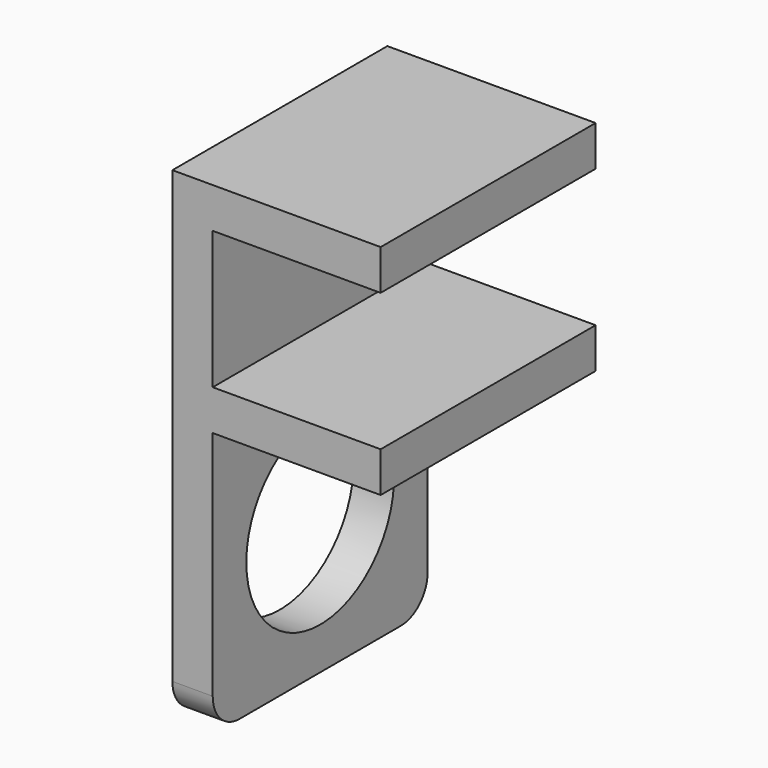
from build123d import *

# Parameters (mm, degrees)
F0_W     = 25
F0_H     = 6
F1_DEPTH = 40
F2_R     = 5
F3_R     = 13.75
F4_DEPTH = 25


with BuildPart() as f1:
    # F0 (on Front) → F1 (new body)
    with BuildSketch(Plane.XZ):
        Polygon((0, 72), (0, 0), (6, 0), (6, 39.5), (6, 45.5), (6, 66), (6, 72), align=None)
        with Locations((18.5, 42.5)):
            Rectangle(F0_W, F0_H)
        with Locations((18.5, 69)):
            Rectangle(F0_W, F0_H)
    extrude(amount=F1_DEPTH)

    # F2
    f2_edges = [f1.edges().sort_by_distance(p)[0] for p in [
        (3, 0, 0),
        (3, -40, 0),
    ]]
    fillet(f2_edges, radius=F2_R)

    # F3 (on face) → F4 (cut)
    with BuildSketch(Plane(origin=(0, 0, 0), x_dir=(0, -1, 0), z_dir=(-1, 0, 0))):
        with Locations((20, 20)):
            Circle(F3_R)
    extrude(amount=-F4_DEPTH, mode=Mode.SUBTRACT)


solid = f1.part
